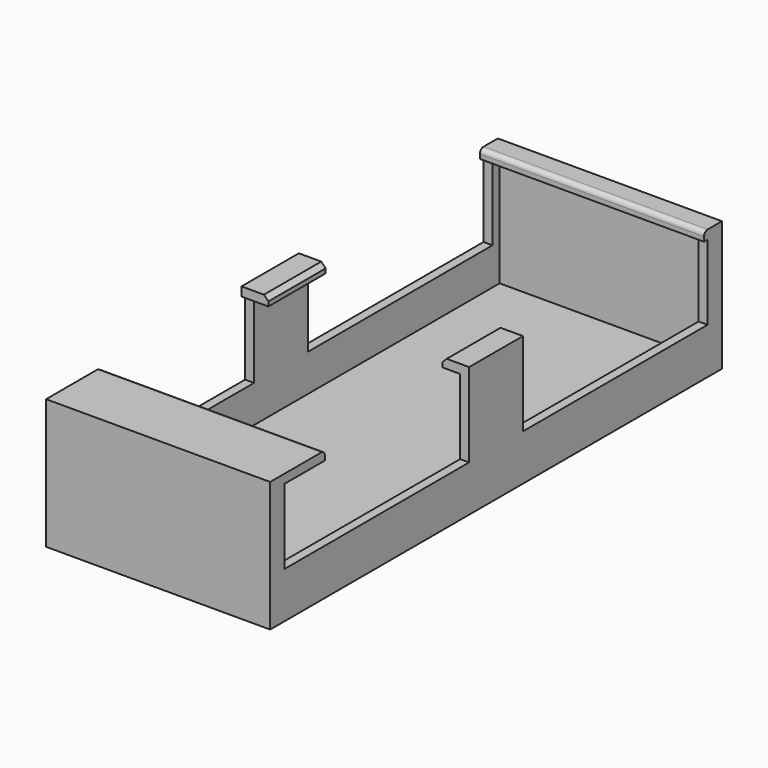
from build123d import *

# Parameters (mm, degrees)
SKETCH_W        = 50
SKETCH_H        = 126
PAD_DEPTH       = 27
THICKNESS_T     = -2
SKETCH001_W     = 51.5
SKETCH001_H     = 16.72
POCKET_DEPTH    = 50.001
SKETCH002_W     = 50
SKETCH002_H     = 15.24
PAD001_DEPTH    = 2
SKETCH003_W     = 50
SKETCH003_H     = 5
PAD002_DEPTH    = 2
SKETCH004_W     = 6
SKETCH004_H     = 15
PAD003_DEPTH    = 2
SKETCH005_W     = 6
SKETCH005_H     = 16
PAD004_DEPTH    = 2
CHAMFER_SIZE    = 1
CHAMFER001_SIZE = 1
FILLET_R        = 1
FILLET001_R     = 1


with BuildPart() as part:
    # Sketch → Pad (new body)
    with BuildSketch(Plane.XY):
        Rectangle(SKETCH_W, SKETCH_H)
    extrude(amount=PAD_DEPTH)

    # Thickness
    thickness_openings = [part.faces().sort_by_distance(p)[0] for p in [
        (0, 0, 27),
    ]]
    offset(amount=THICKNESS_T, openings=thickness_openings)

    # Sketch001 (on Face3 of Thickness) → Pocket (cut, through all)
    with BuildSketch(Plane.YZ.offset(25)):
        with Locations((-33.25, 18.64)):
            Rectangle(SKETCH001_W, SKETCH001_H)
        with Locations((33.25, 18.64)):
            Rectangle(SKETCH001_W, SKETCH001_H)
    extrude(amount=-POCKET_DEPTH, mode=Mode.SUBTRACT)

    # Sketch002 (on Face4 of Pocket) → Pad001 (join)
    with BuildSketch(Plane.XY.offset(27)):
        with Locations((0, -55.38)):
            Rectangle(SKETCH002_W, SKETCH002_H)
    extrude(amount=PAD001_DEPTH)

    # Sketch003 (on Face12 of Pad001) → Pad002 (join)
    with BuildSketch(Plane.XY.offset(27)):
        with Locations((0, 60.5)):
            Rectangle(SKETCH003_W, SKETCH003_H)
    extrude(amount=PAD002_DEPTH)

    # Sketch004 (on Face6 of Pad002) → Pad003 (join)
    with BuildSketch(Plane.XY.offset(27)):
        with Locations((22, 0)):
            Rectangle(SKETCH004_W, SKETCH004_H)
    extrude(amount=PAD003_DEPTH)

    # Sketch005 (on Face13 of Pad003) → Pad004 (join)
    with BuildSketch(Plane.XY.offset(27)):
        with Locations((-22, -0.5)):
            Rectangle(SKETCH005_W, SKETCH005_H)
    extrude(amount=PAD004_DEPTH)

    # Chamfer
    chamfer_edges = [part.edges().sort_by_distance(p)[0] for p in [
        (-19, -0.5, 29),
    ]]
    chamfer(chamfer_edges, length=CHAMFER_SIZE)

    # Chamfer001
    chamfer001_edges = [part.edges().sort_by_distance(p)[0] for p in [
        (19, 0, 29),
    ]]
    chamfer(chamfer001_edges, length=CHAMFER001_SIZE)

    # Fillet
    fillet_edges = [part.edges().sort_by_distance(p)[0] for p in [
        (0, 58, 29),
    ]]
    fillet(fillet_edges, radius=FILLET_R)

    # Fillet001
    fillet001_edges = [part.edges().sort_by_distance(p)[0] for p in [
        (0, -47.76, 29),
    ]]
    fillet(fillet001_edges, radius=FILLET001_R)


solid = part.part
